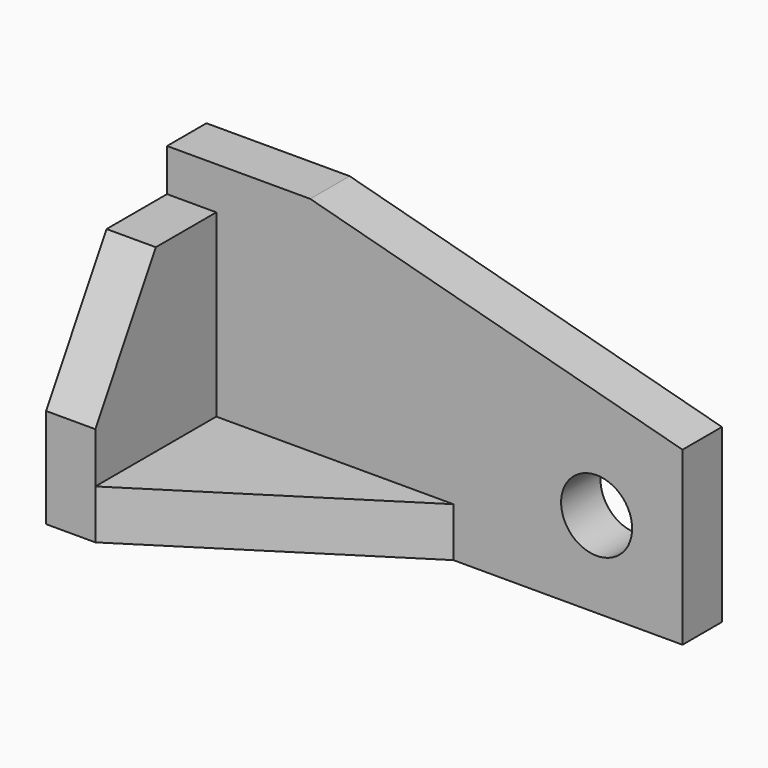
from build123d import *

# Parameters (mm, degrees)
F1_DEPTH = 10.922
F2_DEPTH = 60.198
F0_W     = 10.922
F0_H     = 33.528
F3_DEPTH = 50.8
F5_DEPTH = 76.2
F6_R     = 7.874
F7_DEPTH = 76.2


with BuildPart() as f1:
    # F0 (on Top) → F1 (new body)
    with BuildSketch(Plane.XY):
        Polygon((-12.473797, 74.355531), (-44.22211, 74.355531), (-65.05011, 74.355531), (-65.05011, 40.827531), align=None)
    extrude(amount=F1_DEPTH)

    # F0 (on Top) → F2 (join)
    with BuildSketch(Plane.XY):
        Polygon((-44.22211, 85.277531), (-75.97211, 85.277531), (-75.97211, 74.355531), (-65.05011, 74.355531), (-44.22211, 74.355531), align=None)
        Polygon((38.32789, 85.277531), (-44.22211, 85.277531), (-44.22211, 74.355531), (-12.473797, 74.355531), (38.32789, 74.355531), align=None)
    extrude(amount=F2_DEPTH)

    # F0 (on Top) → F3 (join)
    with BuildSketch(Plane.XY):
        with Locations((-70.51111, 57.591531)):
            Rectangle(F0_W, F0_H)
    extrude(amount=F3_DEPTH)

    # F4 (on face) → F5 (cut)
    with BuildSketch(Plane.YZ.offset(-65.05011)):
        Polygon((57.591531, 50.8), (40.827531, 50.8), (40.827531, 22.098), align=None)
    extrude(amount=-F5_DEPTH, mode=Mode.SUBTRACT)

    # F6 (on face) → F7 (cut)
    with BuildSketch(Plane.XZ.offset(-74.355531)):
        Polygon((38.32789, 38.078794), (38.32789, 60.198), (-44.22211, 60.198), align=None)
        with Locations((19.27789, 19.05)):
            Circle(F6_R)
    extrude(amount=-F7_DEPTH, mode=Mode.SUBTRACT)


solid = f1.part
